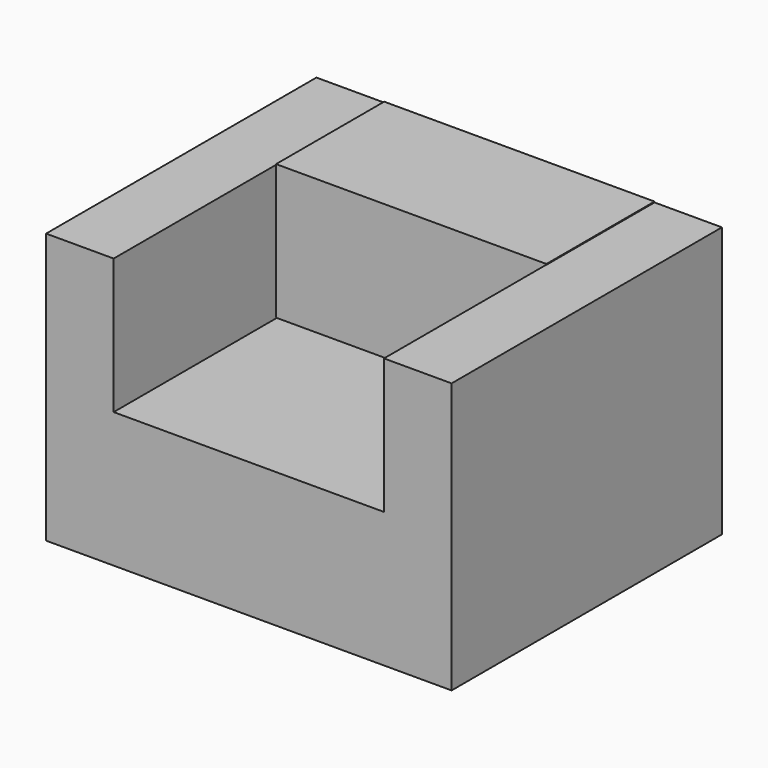
from build123d import *

# Parameters (mm, degrees)
F2_DEPTH = 127
F1_W     = 101.6
F1_H     = 50.809272
F3_DEPTH = 50.8


with BuildPart() as f2:
    # F0 (on Front) → F2 (new body)
    with BuildSketch(Plane.XZ):
        Polygon((-73.147826, 61.750274), (-73.147826, -39.849726), (79.252174, -39.849726), (79.252174, 61.750274), (53.852174, 61.750274), (53.852174, 10.950274), (-47.747826, 10.950274), (-47.747826, 61.750274), align=None)
    extrude(amount=F2_DEPTH)

    # F1 (on Front) → F3 (join)
    with BuildSketch(Plane.XZ):
        with Locations((3.122856, 36.646917)):
            Rectangle(F1_W, F1_H)
    extrude(amount=F3_DEPTH)


solid = f2.part
